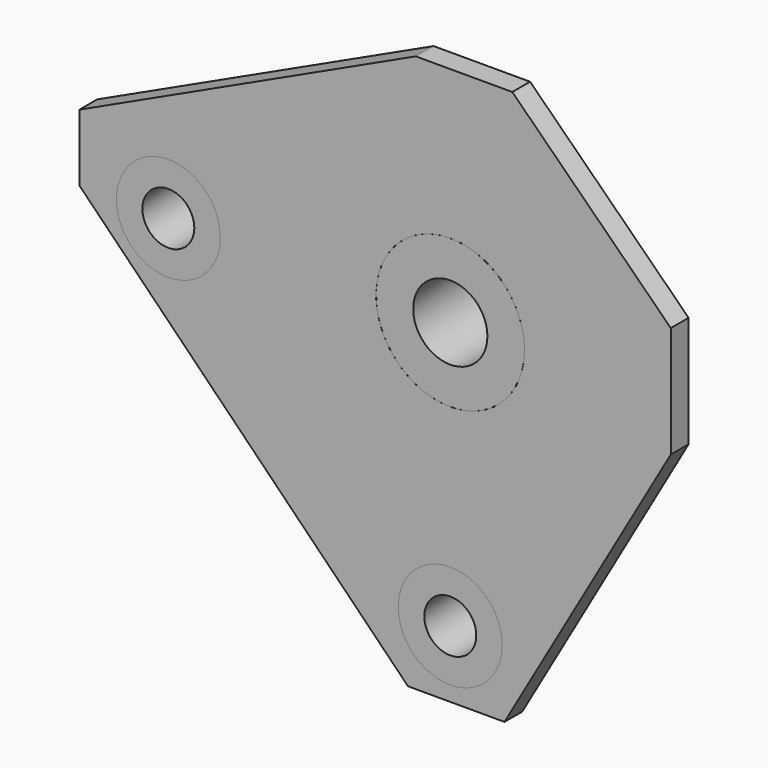
from build123d import *

# Parameters (mm, degrees)
F1_DEPTH = 3
F0_R     = 3.5
F2_DEPTH = 3
F3_R     = 5
F3_R_2   = 7
F3_R_3   = 3.5
F4_DEPTH = 10


with BuildPart() as f1:
    # F0 (on Front) → F1 (new body)
    with BuildSketch(Plane.XZ):
        with BuildLine():
            ThreePointArc((-9.88686, -1.5), (-10, 0), (-9.88686, 1.5))
            Line((-9.88686, 1.5), (-24.88686, 1.5))
            Line((-24.88686, 1.5), (-24.88686, -1.5))
            Line((-24.88686, -1.5), (-9.88686, -1.5))
        make_face()
        with BuildLine():
            ThreePointArc((-1.5, 9.88686), (0, 10), (1.5, 9.88686))
            Line((1.5, 9.88686), (1.5, 24.88686))
            Line((1.5, 24.88686), (-1.5, 24.88686))
            Line((-1.5, 24.88686), (-1.5, 9.88686))
        make_face()
        with BuildLine():
            ThreePointArc((9.88686, 1.5), (9.971675, 0.75213), (10, 0))
            ThreePointArc((10, 0), (9.971675, -0.75213), (9.88686, -1.5))
            Line((9.88686, -1.5), (24.88686, -1.5))
            Line((24.88686, -1.5), (24.88686, 1.5))
            Line((24.88686, 1.5), (9.88686, 1.5))
        make_face()
        with BuildLine():
            Line((1.5, -24.88686), (1.5, -9.88686))
            ThreePointArc((1.5, -9.88686), (0, -10), (-1.5, -9.88686))
            Line((-1.5, -9.88686), (-1.5, -24.88686))
            Line((-1.5, -24.88686), (1.5, -24.88686))
        make_face()
    extrude(amount=-F1_DEPTH)


with BuildPart() as f2:
    # F0 (on Front) → F2 (new body)
    with BuildSketch(Plane.XZ):
        Polygon((-49.986798, 9), (-49.986798, 0), (-5.699021, -45.011338), (7.300979, -45.011338), (29.718812, -5.99287), (29.718812, 2.802204), (29.718812, 9.00713), (8.356749, 30.070422), (-4.643251, 30.070422), align=None)
        with Locations((0, -36)):
            Circle(F0_R, mode=Mode.SUBTRACT)
        with Locations((-38, 0)):
            Circle(F0_R, mode=Mode.SUBTRACT)
        with BuildLine():
            ThreePointArc((1.5, 9.88686), (7.071068, 7.071068), (9.88686, 1.5))
            Line((9.88686, 1.5), (24.88686, 1.5))
            Line((24.88686, 1.5), (24.88686, -1.5))
            Line((24.88686, -1.5), (9.88686, -1.5))
            ThreePointArc((9.88686, -1.5), (7.071068, -7.071068), (1.5, -9.88686))
            Line((1.5, -9.88686), (1.5, -24.88686))
            Line((1.5, -24.88686), (-1.5, -24.88686))
            Line((-1.5, -24.88686), (-1.5, -9.88686))
            ThreePointArc((-1.5, -9.88686), (-7.071068, -7.071068), (-9.88686, -1.5))
            Line((-9.88686, -1.5), (-24.88686, -1.5))
            Line((-24.88686, -1.5), (-24.88686, 1.5))
            Line((-24.88686, 1.5), (-9.88686, 1.5))
            ThreePointArc((-9.88686, 1.5), (-7.071068, 7.071068), (-1.5, 9.88686))
            Line((-1.5, 9.88686), (-1.5, 24.88686))
            Line((-1.5, 24.88686), (1.5, 24.88686))
            Line((1.5, 24.88686), (1.5, 9.88686))
        make_face(mode=Mode.SUBTRACT)
        with BuildLine():
            ThreePointArc((-9.88686, -1.5), (-10, 0), (-9.88686, 1.5))
            Line((-9.88686, 1.5), (-24.88686, 1.5))
            Line((-24.88686, 1.5), (-24.88686, -1.5))
            Line((-24.88686, -1.5), (-9.88686, -1.5))
        make_face()
        with BuildLine():
            ThreePointArc((-1.5, 9.88686), (0, 10), (1.5, 9.88686))
            Line((1.5, 9.88686), (1.5, 24.88686))
            Line((1.5, 24.88686), (-1.5, 24.88686))
            Line((-1.5, 24.88686), (-1.5, 9.88686))
        make_face()
        with BuildLine():
            ThreePointArc((9.88686, 1.5), (9.971675, 0.75213), (10, 0))
            ThreePointArc((10, 0), (9.971675, -0.75213), (9.88686, -1.5))
            Line((9.88686, -1.5), (24.88686, -1.5))
            Line((24.88686, -1.5), (24.88686, 1.5))
            Line((24.88686, 1.5), (9.88686, 1.5))
        make_face()
        with BuildLine():
            Line((1.5, -24.88686), (1.5, -9.88686))
            ThreePointArc((1.5, -9.88686), (0, -10), (-1.5, -9.88686))
            Line((-1.5, -9.88686), (-1.5, -24.88686))
            Line((-1.5, -24.88686), (1.5, -24.88686))
        make_face()
    extrude(amount=F2_DEPTH)


with BuildPart() as f4:
    # F3 (on face) → F4 (new body)
    with BuildSketch(Plane.XZ.offset(3)):
        with BuildLine():
            ThreePointArc((9.88686, -1.5), (9.971675, -0.75213), (10, 0))
            ThreePointArc((10, 0), (9.971675, 0.75213), (9.88686, 1.5))
            ThreePointArc((9.88686, 1.5), (-7.071068, 7.071068), (-1.5, -9.88686))
            ThreePointArc((-1.5, -9.88686), (5.930406, -8.051726), (9.88686, -1.5))
        make_face()
        Circle(F3_R, mode=Mode.SUBTRACT)
        with Locations((0, -36)):
            Circle(F3_R_2)
        with Locations((0, -36)):
            Circle(F3_R_3, mode=Mode.SUBTRACT)
        with Locations((-38, 0)):
            Circle(F3_R_2)
        with Locations((-38, 0)):
            Circle(F3_R_3, mode=Mode.SUBTRACT)
    extrude(amount=-F4_DEPTH)


with BuildPart() as f6:
    # F5 (on Top) → F6 (revolve)
    with BuildSketch(Plane.XY):
        with BuildLine():
            ThreePointArc((-38, 2), (-35.5, 4.5), (-38, 7))
            Line((-38, 7), (-38, 2))
        make_face()
    revolve(axis=Axis((-38, 4.5, 0), (0, -1, 0)))


solid = Compound([f1.part, f2.part, f4.part, f6.part])
